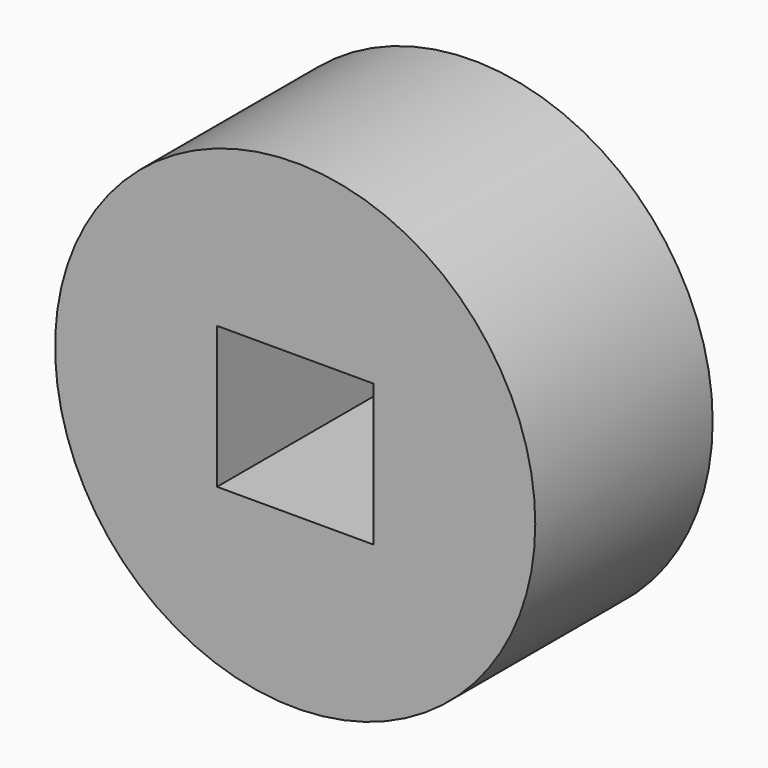
from build123d import *

# Parameters (mm, degrees)
F0_R     = 55.005058
F0_W     = 35.801106
F0_H     = 32.46371
F1_DEPTH = 50.8


with BuildPart() as f1:
    # F0 (on Front) → F1 (new body)
    with BuildSketch(Plane.XZ):
        Circle(F0_R)
        Rectangle(F0_W, F0_H, mode=Mode.SUBTRACT)
    extrude(amount=F1_DEPTH)


solid = f1.part
